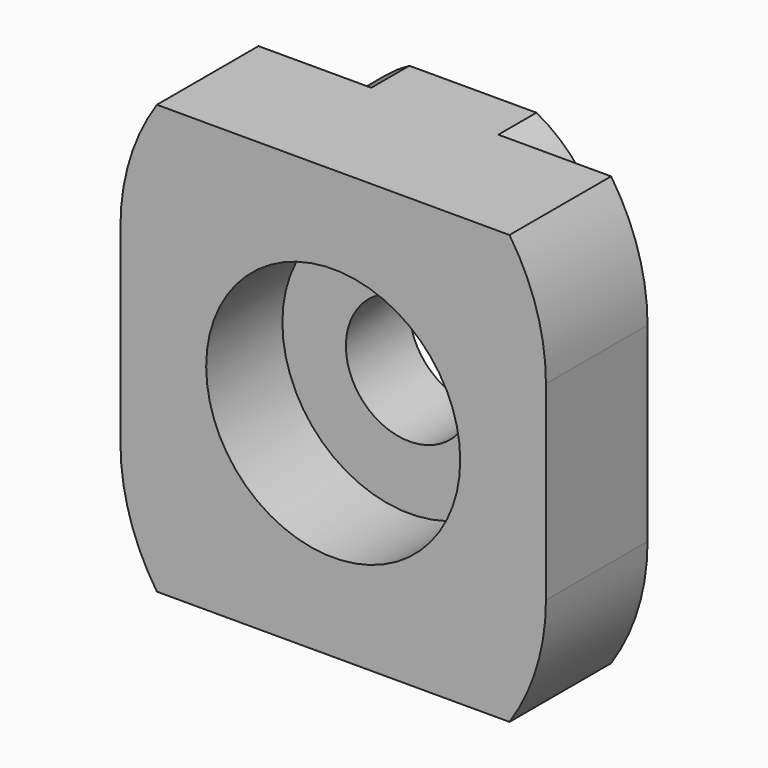
from build123d import *

# Parameters (mm, degrees)
SKETCH148_W             = 15
SKETCH148_H             = 5.5
PAD032_DEPTH            = 6.75
BODY059_PLACEMENT_ANGLE = 180


with BuildPart() as part:
    # Sketch148 → Pad032 (new body, symmetric)
    with BuildSketch(Plane.XY):
        with Locations((0, -4.25)):
            Rectangle(SKETCH148_W, SKETCH148_H)
    extrude(amount=PAD032_DEPTH, both=True)

    # Sketch149 → Groove006 (revolve, cut)
    with BuildSketch(Plane.XY):
        Polygon((0, 0), (0, -8), (4, -8), (4, -4), (2, -4), (2, 0), align=None)
    revolve(axis=Axis((0, 0, 0), (0, 1, 0)), mode=Mode.SUBTRACT)

    # SubtractivePipe006003: sweep along a path in Sketch150
    with BuildLine(Plane.XZ) as subtractivepipe006003_path:
        ThreePointArc((6.75, 3), (0, 9.75), (-6.75, 3))
        Line((-6.75, 3), (-6.75, -3))
        ThreePointArc((-6.75, -3), (0, -9.75), (6.75, -3))
        Line((6.75, -3), (6.75, 3))
    # Sketch151 → SubtractivePipe006003 (sweep, cut)
    with BuildSketch(Plane.XY):
        Polygon((4.25, 0), (4.25, -3), (6.7, -3), (6.7, -8), (10, -8), (10, 0), align=None)
    sweep(path=subtractivepipe006003_path.line, mode=Mode.SUBTRACT)


with BuildPart() as part_1:
    # Body059 placement: moved
    add(part.part.moved(Location((50, 0, -1))).rotate(Axis((50, 0, -1), (0, 1, 0)), BODY059_PLACEMENT_ANGLE))


solid = part_1.part
